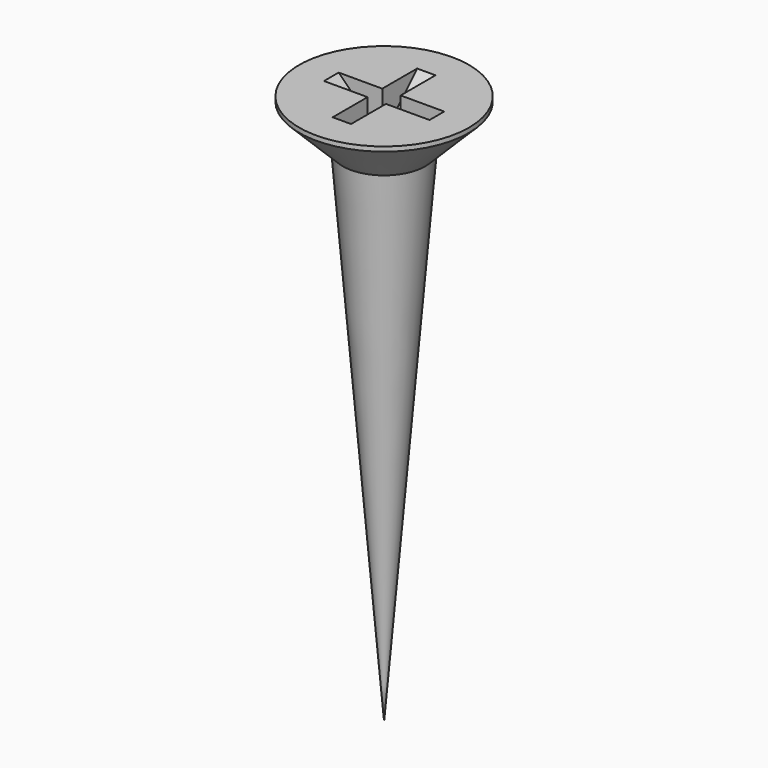
from build123d import *

# Parameters (mm, degrees)
POCKET_DEPTH       = 0.2
POLARPATTERN_COUNT = 2
POLARPATTERN_ANGLE = 90


with BuildPart() as part:
    # Sketch → Revolution (revolve)
    with BuildSketch(Plane.XZ):
        Polygon((0, 0), (0, -12), (0.9, -1.05), (1.85, -0.1), (1.85, 0), align=None)
    revolve(axis=Axis((0, 0, 0), (0, 0, 1)))

    # Sketch001 → Pocket (cut, symmetric)
    with BuildSketch(Plane.XZ):
        Polygon((-1.15, 0), (0, -1.15), (1.15, 0), align=None)
    pocket = extrude(amount=POCKET_DEPTH, both=True, mode=Mode.SUBTRACT)

    # PolarPattern: Pocket ×2 about axis
    polarpattern_axis = Axis((0, 0, 0), (0, 0, 1))
    for i in range(1, POLARPATTERN_COUNT):
        add(pocket.rotate(polarpattern_axis, i * POLARPATTERN_ANGLE / (POLARPATTERN_COUNT - 1)), mode=Mode.SUBTRACT)


solid = part.part
